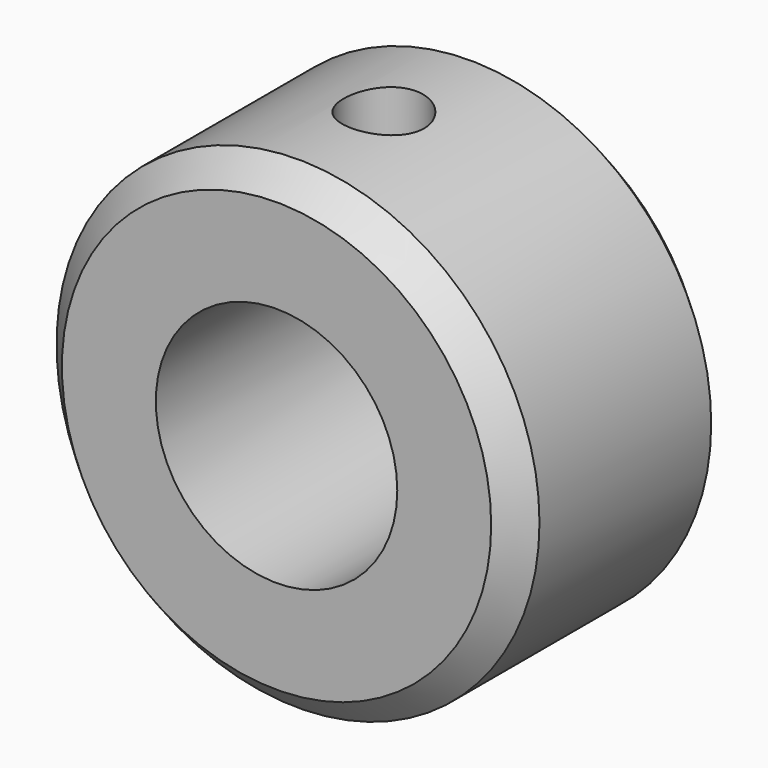
from build123d import *

# Parameters (mm, degrees)
F0_R     = 9
F0_R_2   = 4.5
F1_DEPTH = 5
F2_R     = 1.5
F3_DEPTH = 9.001
F4_SIZE  = 1


with BuildPart() as f1:
    # F0 (on Front) → F1 (new body, symmetric)
    with BuildSketch(Plane.XZ):
        Circle(F0_R)
        Circle(F0_R_2, mode=Mode.SUBTRACT)
    extrude(amount=F1_DEPTH, both=True)

    # F2 (on Top) → F3 (cut, through all)
    with BuildSketch(Plane.XY):
        Circle(F2_R)
    extrude(amount=F3_DEPTH, mode=Mode.SUBTRACT)

    # F4
    f4_edges = [f1.edges().sort_by_distance(p)[0] for p in [
        (-9, -5, 0),
        (-9, 5, 0),
    ]]
    chamfer(f4_edges, length=F4_SIZE)


solid = f1.part
